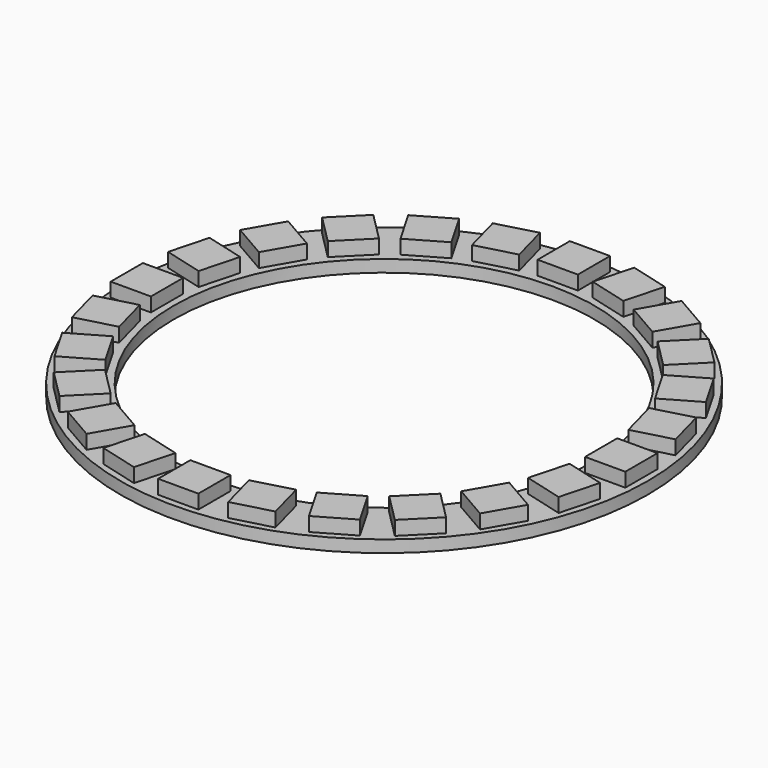
from build123d import *

# Parameters (mm, degrees)
F0_R     = 32.8
F0_R_2   = 26.15
F2_DEPTH = 1.5
F1_W     = 2.5
F1_H     = 5
F3_DEPTH = 3.25
F4_COUNT = 24


with BuildPart() as f2:
    # F0 (on Top) → F2 (new body)
    with BuildSketch(Plane.XY):
        Circle(F0_R)
        Circle(F0_R_2, mode=Mode.SUBTRACT)
    extrude(amount=F2_DEPTH)

    # F1 (on Top) → F3 (join)
    with BuildSketch(Plane.XY):
        with Locations((-1.25, 29.475)):
            Rectangle(F1_W, F1_H)
        with Locations((1.25, 29.475)):
            Rectangle(F1_W, F1_H)
    extrude(amount=F3_DEPTH)

    # F4: F2 ×24 about axis
    f4_axis = Axis((0, 0, 0), (0, 0, 1))


with BuildPart() as f2_1:
    add(f2.part)
    for i in range(1, F4_COUNT):
        add(f2.part.rotate(f4_axis, i * 360 / F4_COUNT))


solid = f2_1.part
